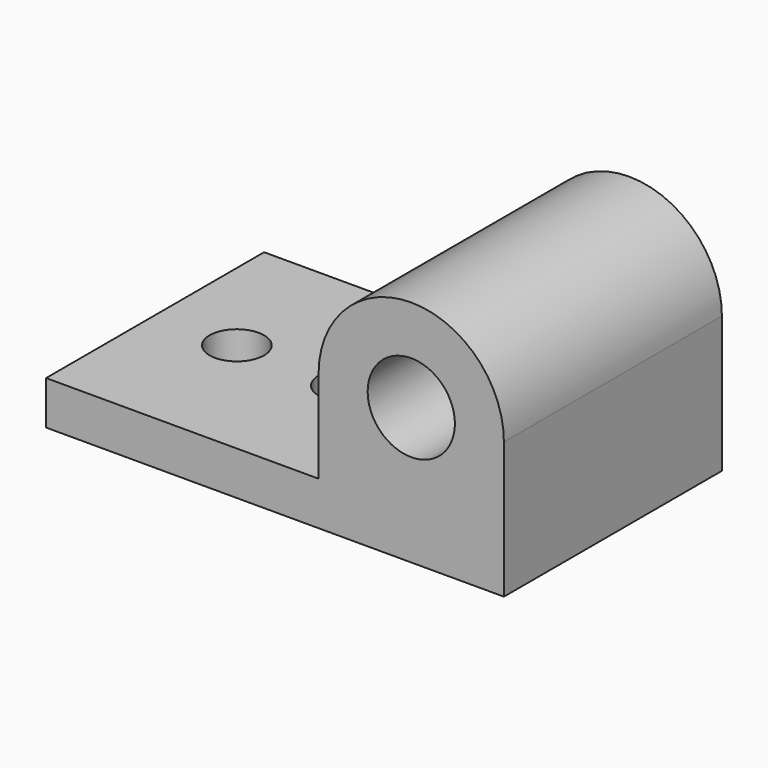
from build123d import *

# Parameters (mm, degrees)
F1_DEPTH = 25
F2_DEPTH = 5
F4_DEPTH = 25


with BuildPart() as f1:
    # F0 (on Front) → F1 (new body)
    with BuildSketch(Plane.XZ):
        Polygon((0, 4), (0, 0), (42, 0), (42, 4), (33.5, 4), (25, 4), align=None)
        with BuildLine():
            Line((25, 12.5), (25, 4))
            Line((25, 4), (33.5, 4))
            ThreePointArc((33.5, 4), (27.4895923599, 6.4895923599), (25, 12.5))
        make_face()
        with BuildLine():
            ThreePointArc((25, 12.5), (27.4895923599, 6.4895923599), (33.5, 4))
            ThreePointArc((33.5, 4), (39.5104076401, 6.4895923599), (42, 12.5))
            ThreePointArc((42, 12.5), (33.5, 21), (25, 12.5))
        make_face()
        with BuildLine():
            ThreePointArc((37.5, 12.5), (33.5, 8.5), (29.5, 12.5))
            ThreePointArc((29.5, 12.5), (33.5, 16.5), (37.5, 12.5))
        make_face(mode=Mode.SUBTRACT)
        with BuildLine():
            Line((33.5, 4), (42, 4))
            Line((42, 4), (42, 12.5))
            ThreePointArc((42, 12.5), (39.5104076401, 6.4895923599), (33.5, 4))
        make_face()
    extrude(amount=F1_DEPTH)

    # F0 (on Front) → F2 (join)
    with BuildSketch(Plane.XZ):
        with BuildLine():
            ThreePointArc((37.5, 12.5), (33.5, 16.5), (29.5, 12.5))
            ThreePointArc((29.5, 12.5), (33.5, 8.5), (37.5, 12.5))
        make_face()
    extrude(amount=F2_DEPTH)

    # F3 (on face) → F4 (cut)
    with BuildSketch(Plane.XY.offset(4)):
        with BuildLine():
            ThreePointArc((5, -12.5), (7.5, -15), (10, -12.5))
            Line((10, -12.5), (5, -12.5))
        make_face()
        with BuildLine():
            Line((5, -12.5), (10, -12.5))
            ThreePointArc((10, -12.5), (7.5, -10), (5, -12.5))
        make_face()
        with BuildLine():
            ThreePointArc((15, -12.5), (17.5, -15), (20, -12.5))
            Line((20, -12.5), (15, -12.5))
        make_face()
        with BuildLine():
            Line((15, -12.5), (20, -12.5))
            ThreePointArc((20, -12.5), (17.5, -10), (15, -12.5))
        make_face()
    extrude(amount=-F4_DEPTH, mode=Mode.SUBTRACT)


solid = f1.part
